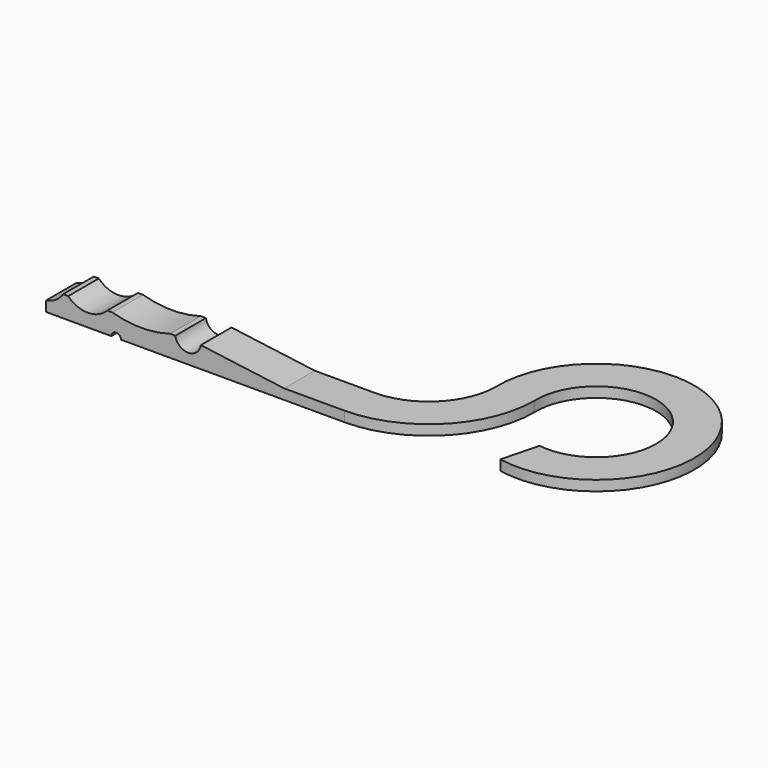
from build123d import *

# Parameters (mm, degrees)
F1_DEPTH = 11.25
F3_DEPTH = 3


with BuildPart() as f1:
    # F0 (on Front) → F1 (new body)
    with BuildSketch(Plane.XZ):
        with BuildLine():
            ThreePointArc((-79.171997, 13.656926), (-81.33179, 11.51529), (-84.171997, 10.426926))
            Line((-84.171997, 10.426926), (-84.171997, 7.426926))
            Line((-84.171997, 7.426926), (-64.971997, 7.426926))
            ThreePointArc((-64.971997, 7.426926), (-63.571997, 8.826926), (-62.171997, 7.426926))
            Line((-62.171997, 7.426926), (-14.171997, 7.426926))
            Line((-14.171997, 7.426926), (-14.171997, 10.426926))
            Line((-14.171997, 10.426926), (-38.671997, 13.656926))
            ThreePointArc((-38.671997, 13.656926), (-42.421997, 10.46775), (-46.171997, 13.656926))
            Line((-46.171997, 13.656926), (-47.671997, 13.656926))
            ThreePointArc((-47.671997, 13.656926), (-56.171997, 12.426926), (-64.671997, 13.656926))
            Line((-64.671997, 13.656926), (-66.171997, 13.656926))
            ThreePointArc((-66.171997, 13.656926), (-71.921997, 11.226926), (-77.671997, 13.656926))
            Line((-77.671997, 13.656926), (-79.171997, 13.656926))
        make_face()
    extrude(amount=F1_DEPTH)

    # F2 (on face) → F3 (join)
    with BuildSketch(Plane(origin=(0, 0, 7.426926), x_dir=(1, 0, 0), z_dir=(0, 0, -1))):
        with BuildLine():
            Line((-25.594914, 11.25), (-25.594914, 0))
            Line((-25.594914, 0), (3.570562, 0))
            ThreePointArc((3.570562, 0), (17.47391, -5.802136), (23.276045, -19.705483))
            ThreePointArc((23.276045, -19.705483), (74.154944, -39.209739), (46.61282, 7.806319))
            Line((46.61282, 7.806319), (49.443696, -3.109664))
            ThreePointArc((49.443696, -3.109664), (65.248429, -32.318722), (34.526045, -19.705483))
            ThreePointArc((34.526045, -19.705483), (25.42879, 2.152744), (3.570562, 11.25))
            Line((3.570562, 11.25), (-25.594914, 11.25))
        make_face()
    extrude(amount=-F3_DEPTH)


solid = f1.part
